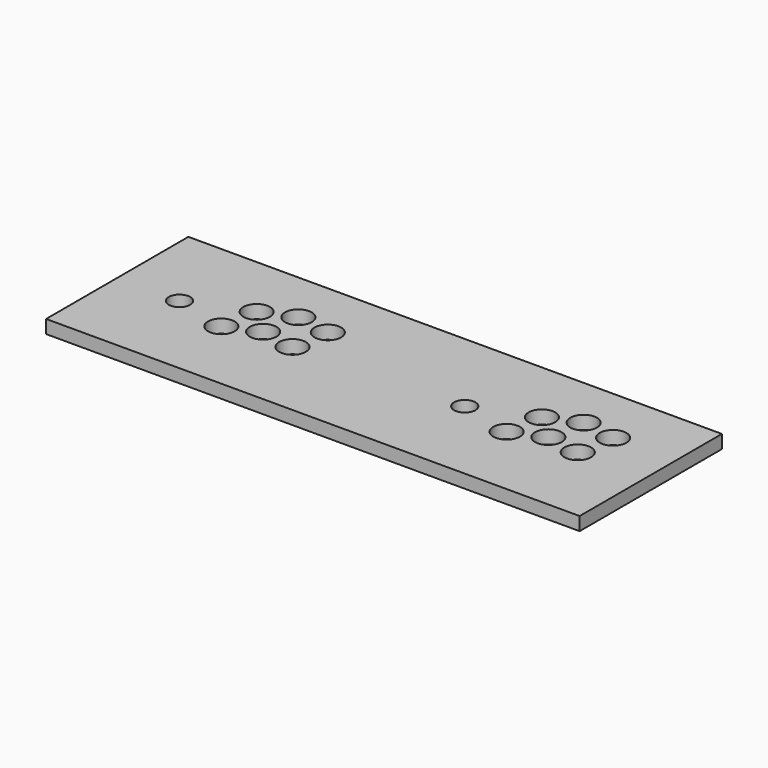
from build123d import *

# Parameters (mm, degrees)
SKETCH_W   = 600
SKETCH_H   = 200
SKETCH_R   = 12
SKETCH_R_2 = 15
PAD_DEPTH  = 15


with BuildPart() as part:
    # Sketch → Pad (new body)
    with BuildSketch(Plane.XY):
        with Locations((300, 100)):
            Rectangle(SKETCH_W, SKETCH_H)
        with Locations((70, 100)):
            Circle(SKETCH_R, mode=Mode.SUBTRACT)
        with Locations((129, 85.1)):
            Circle(SKETCH_R_2, mode=Mode.SUBTRACT)
        with Locations((164, 100)):
            Circle(SKETCH_R_2, mode=Mode.SUBTRACT)
        with Locations((202.2, 93.6)):
            Circle(SKETCH_R_2, mode=Mode.SUBTRACT)
        with Locations((171, 140.9)):
            Circle(SKETCH_R_2, mode=Mode.SUBTRACT)
        with Locations((209.2, 134.5)):
            Circle(SKETCH_R_2, mode=Mode.SUBTRACT)
        with Locations((136, 126)):
            Circle(SKETCH_R_2, mode=Mode.SUBTRACT)
        with Locations((390.8, 100)):
            Circle(SKETCH_R, mode=Mode.SUBTRACT)
        with Locations((449.8, 85.1)):
            Circle(SKETCH_R_2, mode=Mode.SUBTRACT)
        with Locations((484.8, 100)):
            Circle(SKETCH_R_2, mode=Mode.SUBTRACT)
        with Locations((523, 93.6)):
            Circle(SKETCH_R_2, mode=Mode.SUBTRACT)
        with Locations((491.8, 140.9)):
            Circle(SKETCH_R_2, mode=Mode.SUBTRACT)
        with Locations((530, 134.5)):
            Circle(SKETCH_R_2, mode=Mode.SUBTRACT)
        with Locations((456.8, 126)):
            Circle(SKETCH_R_2, mode=Mode.SUBTRACT)
    extrude(amount=PAD_DEPTH)


solid = part.part
